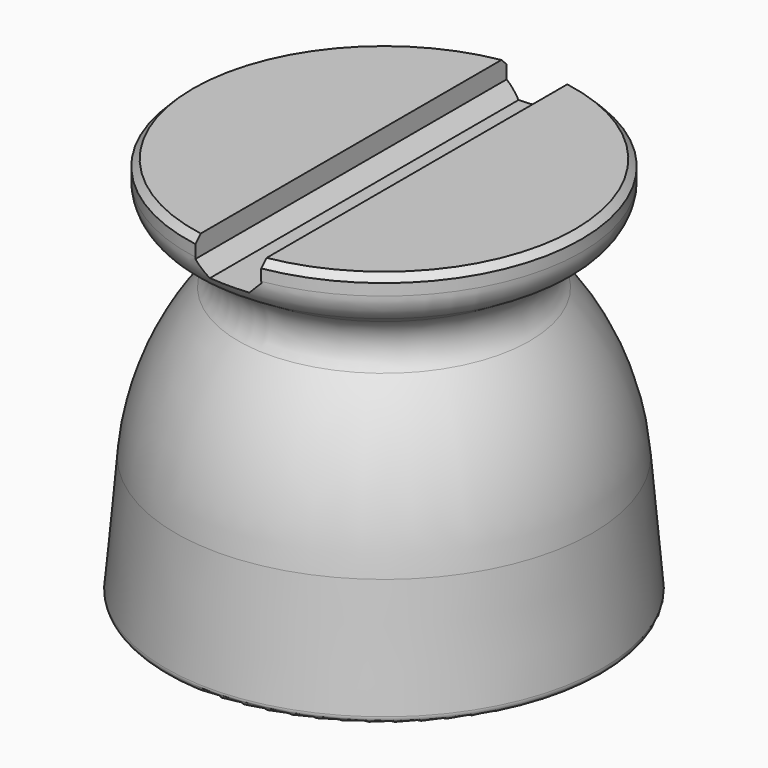
from build123d import *

# Parameters (mm, degrees)
F2_W     = 10
F2_H     = 10.684083
F3_DEPTH = 50
F4_SIZE  = 2


with BuildPart() as f1:
    # F0 (on Front) → F1 (revolve)
    with BuildSketch(Plane.XZ):
        with BuildLine():
            ThreePointArc((5.221926, 49.283396), (20.015155, 37.642235), (26.638337, 20.021517))
            Line((26.638337, 20.021517), (27.70567, 7.821847))
            Line((27.70567, 7.821847), (29.05, 7.821847))
            Line((29.05, 7.821847), (29.05, 1.821847))
            Line((29.05, 1.821847), (32.158393, 1.821847))
            ThreePointArc((32.158393, 1.821847), (32.89567, 2.146257), (33.154587, 2.909003))
            Line((33.154587, 2.909003), (31.619311, 20.457296))
            ThreePointArc((31.619311, 20.457296), (28.637021, 32.493148), (22.112054, 43.037369))
            ThreePointArc((22.112054, 43.037369), (20.965631, 47.074366), (23.298553, 50.562789))
            Line((23.298553, 50.562789), (27.557738, 53.164003))
            ThreePointArc((27.557738, 53.164003), (29.31231, 54.984743), (29.951671, 57.431135))
            Line((29.951671, 57.431135), (29.951671, 59.172666))
            Line((29.951671, 59.172666), (28.951671, 60.172666))
            Line((28.951671, 60.172666), (0, 60.172666))
            Line((0, 60.172666), (0, 50.051302))
            Line((0, 50.051302), (1.378953, 50.051302))
            ThreePointArc((1.378953, 50.051302), (3.338425, 49.857446), (5.221926, 49.283396))
        make_face()
    revolve(axis=Axis((0, 0, 55.111984), (0, 0, -1)))

    # F2 (on Front) → F3 (cut, symmetric)
    with BuildSketch(Plane.XZ):
        with Locations((0, 60.514708)):
            Rectangle(F2_W, F2_H)
    extrude(amount=F3_DEPTH, both=True, mode=Mode.SUBTRACT)

    # F4
    f4_edges = [f1.edges().sort_by_distance(p)[0] for p in [
        (-5, 0, 55.172666),
        (5, 0, 55.172666),
    ]]
    chamfer(f4_edges, length=F4_SIZE)


solid = f1.part
